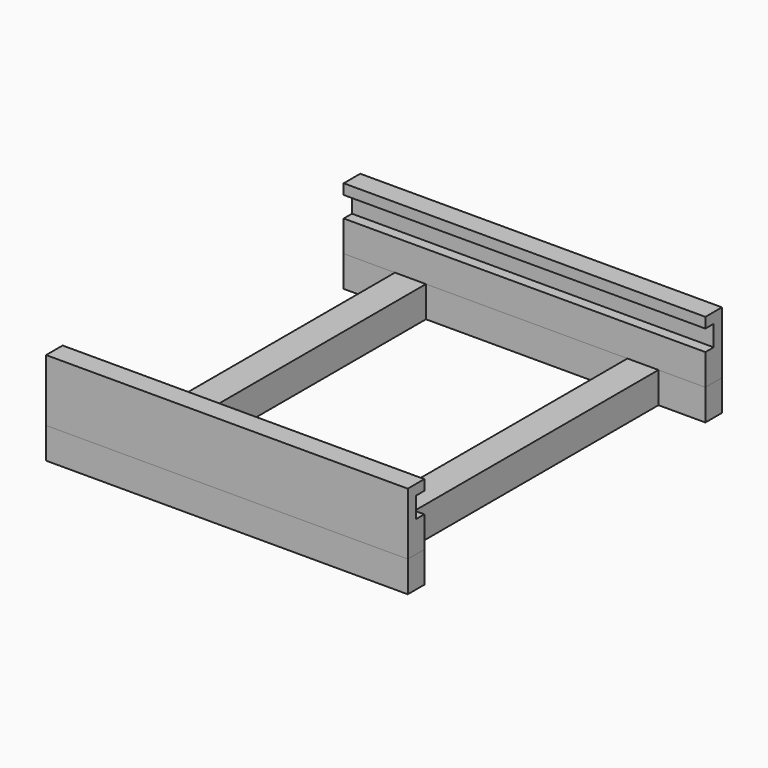
from build123d import *

# Parameters (mm, degrees)
F1_DEPTH = 9
F0_W     = 3
F0_H     = 34
F2_DEPTH = 3
F3_W     = 1
F3_H     = 2
F4_DEPTH = 35
F5_W     = 1
F5_H     = 2
F6_DEPTH = 35


with BuildPart() as f1:
    # F0 (on Top) → F1 (new body)
    with BuildSketch(Plane.XY):
        Polygon((18.296743, 25.997781), (-16.703257, 25.997781), (-16.703257, 23.997781), (-11.743939, 23.997781), (-8.743939, 23.997781), (10.756061, 23.997781), (13.756061, 23.997781), (18.296743, 23.997781), align=None)
        Polygon((-8.743939, -10.002219), (-11.743939, -10.002219), (-16.703257, -10.002219), (-16.703257, -12.002219), (18.296743, -12.002219), (18.296743, -10.002219), (13.756061, -10.002219), (10.756061, -10.002219), align=None)
    extrude(amount=F1_DEPTH)

    # F3 (on face) → F4 (cut)
    with BuildSketch(Plane.YZ.offset(18.296743)):
        with Locations((-10.502219, 7)):
            Rectangle(F3_W, F3_H)
    extrude(amount=-F4_DEPTH, mode=Mode.SUBTRACT)

    # F5 (on face) → F6 (cut)
    with BuildSketch(Plane.YZ.offset(18.296743)):
        with Locations((24.497781, 7)):
            Rectangle(F5_W, F5_H)
    extrude(amount=-F6_DEPTH, mode=Mode.SUBTRACT)


with BuildPart() as f2:
    # F0 (on Top) → F2 (new body)
    with BuildSketch(Plane.XY):
        Polygon((18.296743, 25.997781), (-16.703257, 25.997781), (-16.703257, 23.997781), (-11.743939, 23.997781), (-8.743939, 23.997781), (10.756061, 23.997781), (13.756061, 23.997781), (18.296743, 23.997781), align=None)
        with Locations((-10.243939, 6.997781)):
            Rectangle(F0_W, F0_H)
        with Locations((12.256061, 6.997781)):
            Rectangle(F0_W, F0_H)
        Polygon((-8.743939, -10.002219), (-11.743939, -10.002219), (-16.703257, -10.002219), (-16.703257, -12.002219), (18.296743, -12.002219), (18.296743, -10.002219), (13.756061, -10.002219), (10.756061, -10.002219), align=None)
    extrude(amount=F2_DEPTH)


solid = Compound([f1.part, f2.part])
